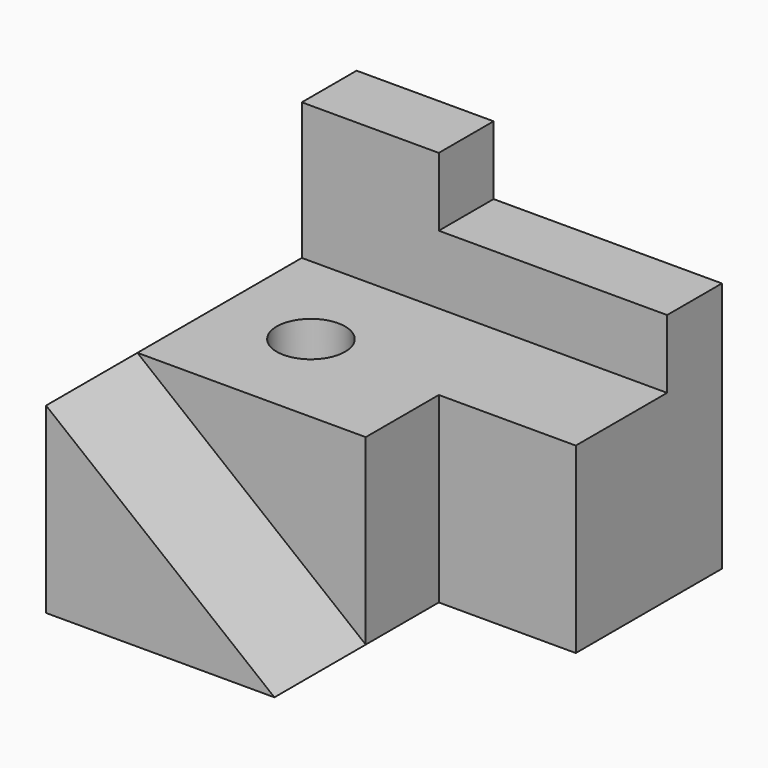
from build123d import *

# Parameters (mm, degrees)
F1_DEPTH = 25
F3_DEPTH = 40
F5_DEPTH = 15
F6_R     = 7.5
F7_DEPTH = 40


with BuildPart() as f1:
    # F0 (on Front) → F1 (new body)
    with BuildSketch(Plane.XZ):
        Polygon((0, 40), (0, 0), (50, 0), align=None)
    extrude(amount=-F1_DEPTH)

    # F2 (on Top) → F3 (join)
    with BuildSketch(Plane.XY):
        Polygon((0, 70), (0, 25), (50, 25), (50, 45), (80, 45), (80, 70), align=None)
    extrude(amount=F3_DEPTH)

    # F4 (on face) → F5 (join)
    with BuildSketch(Plane(origin=(0, 70, 0), x_dir=(-1, 0, 0), z_dir=(0, 1, 0))):
        Polygon((-80, 0), (0, 0), (0, 70), (-30, 70), (-30, 55), (-80, 55), (-80, 40), align=None)
    extrude(amount=F5_DEPTH)

    # F6 (on face) → F7 (cut)
    with BuildSketch(Plane.XY.offset(40)):
        with Locations((20, 47.5)):
            Circle(F6_R)
    extrude(amount=-F7_DEPTH, mode=Mode.SUBTRACT)


solid = f1.part
